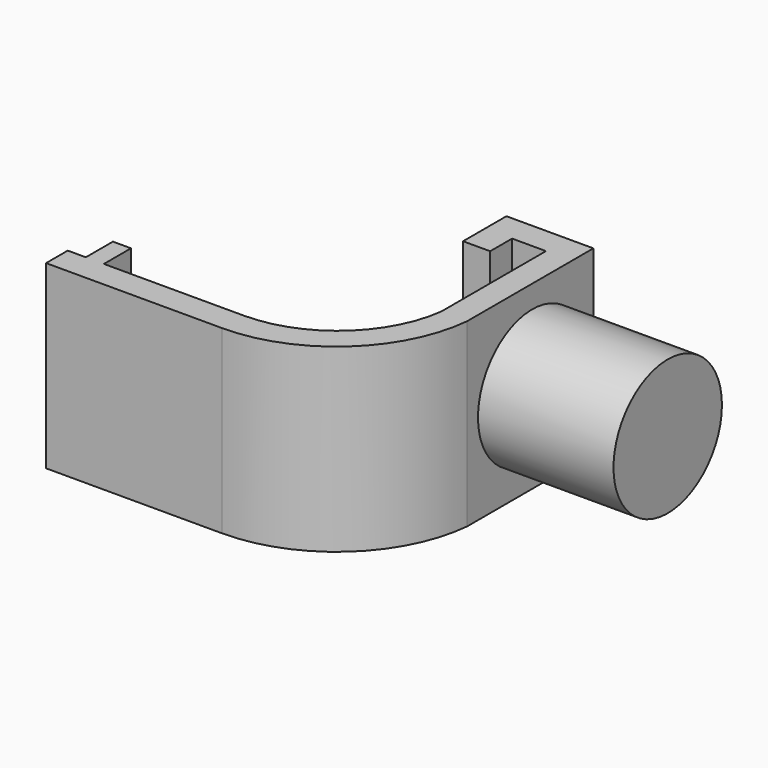
from build123d import *

# Parameters (mm, degrees)
F1_DEPTH = 20
F2_R     = 7.5
F3_DEPTH = 15


with BuildPart() as f1:
    # F0 (on Top) → F1 (new body)
    with BuildSketch(Plane.XY):
        with BuildLine():
            Line((2, 3.75), (0, 3.75))
            Line((0, 3.75), (0, 0))
            Line((0, 0), (-2, 0))
            Line((-2, 0), (-2, -3))
            Line((-2, -3), (0, -3))
            Line((0, -3), (17.5, -3))
            ThreePointArc((17.5, -3), (28.106716, 1.092985), (33.214554, 11.25))
            Line((33.214554, 11.25), (33.214554, 28.71393))
            Line((33.214554, 28.71393), (23.58752, 28.71393))
            Line((23.58752, 28.71393), (23.58752, 22.71393))
            Line((23.58752, 22.71393), (26.58752, 22.71393))
            Line((26.58752, 22.71393), (26.58752, 25.75))
            Line((26.58752, 25.75), (30.33752, 25.75))
            Line((30.33752, 25.75), (30.33752, 11.25))
            ThreePointArc((30.33752, 11.25), (26.0347, 3.210474), (17.5, 0))
            Line((17.5, 0), (2, 0))
            Line((2, 0), (2, 3.75))
        make_face()
    extrude(amount=F1_DEPTH)

    # F2 (on face) → F3 (join)
    with BuildSketch(Plane.YZ.offset(33.214554)):
        with Locations((20.25, 10)):
            Circle(F2_R)
    extrude(amount=F3_DEPTH)


solid = f1.part
